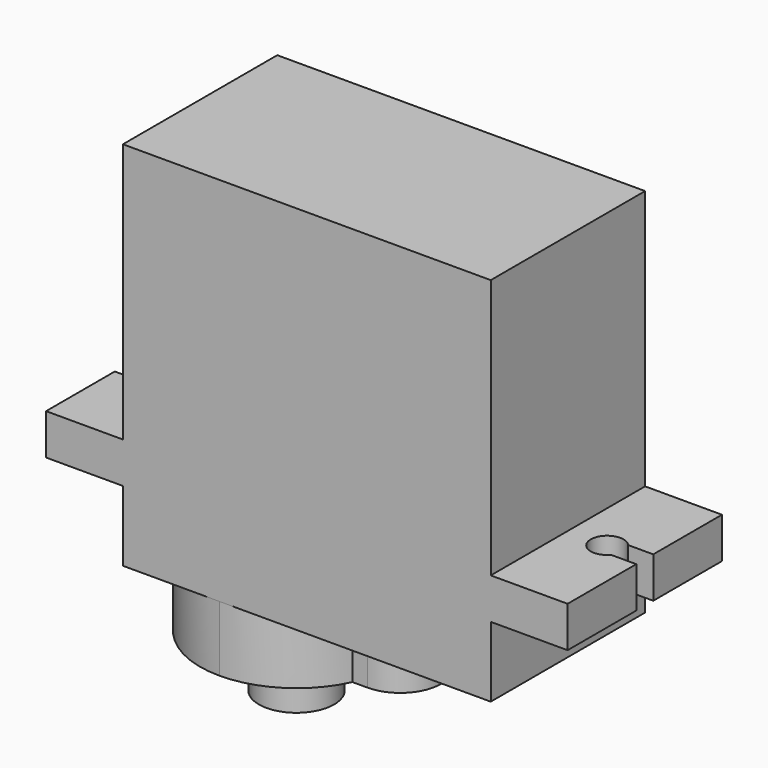
from build123d import *

# Parameters (mm, degrees)
F2_DEPTH  = 22.7
F3_W      = 4.7
F3_H      = 4.3
F3_H_2    = 15.9
F4_DEPTH  = 11.801
F6_R      = 2.3
F7_DEPTH  = 4
F8_DEPTH  = 7.2
F9_R      = 1.25
F10_DEPTH = 5


with BuildPart() as f2:
    # F1 (on face) → F2 (new body)
    with BuildSketch(Plane.XY):
        with BuildLine():
            ThreePointArc((1.540066, 6.55), (3.3, 5.9), (1.540066, 5.25))
            Line((1.540066, 5.25), (0, 5.25))
            Line((0, 5.25), (0, 0))
            Line((0, 0), (15.95, 0))
            Line((15.95, 0), (15.95, 11.8))
            Line((15.95, 11.8), (0, 11.8))
            Line((0, 11.8), (0, 6.55))
            Line((0, 6.55), (1.540066, 6.55))
        make_face()
    extrude(amount=F2_DEPTH)

    # F3 (on face) → F4 (cut, through all)
    with BuildSketch(Plane(origin=(0, 11.8, 0), x_dir=(-1, 0, 0), z_dir=(0, 1, 0))):
        with Locations((-2.35, 2.15)):
            Rectangle(F3_W, F3_H)
        with Locations((-2.35, 14.75)):
            Rectangle(F3_W, F3_H_2)
    extrude(amount=-F4_DEPTH, mode=Mode.SUBTRACT)

    # F5: F2 across face


with BuildPart() as f2_1:
    add(f2.part)
    add(f2.part.mirror(Plane(origin=(15.95, 5.9, 11.35), x_dir=(0, 1, 0), z_dir=(1, 0, 0))))

    # F6 (on face) → F7 (join)
    with BuildSketch(Plane(origin=(0, 0, 0), x_dir=(1, 0, 0), z_dir=(0, 0, -1))):
        with BuildLine():
            Line((16.899756, -3.455402), (15.969724, -3.455402))
            ThreePointArc((15.969724, -3.455402), (13.792716, -0.938492), (10.6, 0))
            ThreePointArc((10.6, 0), (6.42807, -1.72807), (4.7, -5.9))
            ThreePointArc((4.7, -5.9), (6.42807, -10.07193), (10.6, -11.8))
            ThreePointArc((10.6, -11.8), (13.741109, -10.89434), (15.917887, -8.455402))
            Line((15.917887, -8.455402), (16.899756, -8.455402))
            ThreePointArc((16.899756, -8.455402), (19.399756, -5.955402), (16.899756, -3.455402))
        make_face()
        with Locations((10.6, -5.9)):
            Circle(F6_R, mode=Mode.SUBTRACT)
    extrude(amount=F7_DEPTH)

    # F6 (on face) → F8 (join)
    with BuildSketch(Plane(origin=(0, 0, 0), x_dir=(1, 0, 0), z_dir=(0, 0, -1))):
        with Locations((10.6, -5.9)):
            Circle(F6_R)
    extrude(amount=F8_DEPTH)

    # F9 (on face) → F10 (cut)
    with BuildSketch(Plane(origin=(0, 0, -7.2), x_dir=(1, 0, 0), z_dir=(0, 0, -1))):
        with Locations((10.6, -5.9)):
            Circle(F9_R)
    extrude(amount=-F10_DEPTH, mode=Mode.SUBTRACT)


solid = f2_1.part
